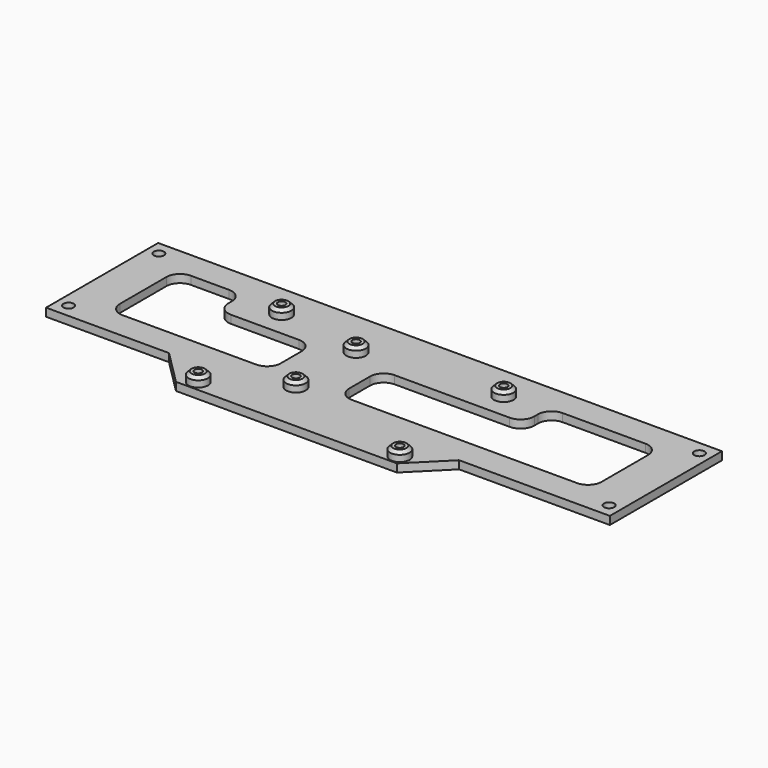
from build123d import *

# Parameters (mm, degrees)
F0_W      = 209.55
F0_H      = 52.07
F0_R      = 1.905
F1_DEPTH  = 2.999994
F3_DEPTH  = 2.999994
F4_R      = 1.397
F5_DEPTH  = 25.4
F6_R      = 3.6195
F6_R_2    = 1.397
F7_DEPTH  = 3.5052
F8_SIZE   = 1.143
F10_DEPTH = 25.4


with BuildPart() as f1:
    # F0 (on Top) → F1 (new body)
    with BuildSketch(Plane.XY):
        with Locations((-104.775, -26.035)):
            Rectangle(F0_W, F0_H)
        with Locations((-205.24089, -46.99)):
            Circle(F0_R, mode=Mode.SUBTRACT)
        with Locations((-4.30911, -46.99)):
            Circle(F0_R, mode=Mode.SUBTRACT)
        with Locations((-205.24089, -5.08)):
            Circle(F0_R, mode=Mode.SUBTRACT)
        with Locations((-4.30911, -5.08)):
            Circle(F0_R, mode=Mode.SUBTRACT)
    extrude(amount=F1_DEPTH)

    # F2 (on face) → F3 (join, through all)
    with BuildSketch(Plane.XY.offset(2.999994)):
        Polygon((-56.0324, -52.07), (-163.8554, -52.07), (-150.9903, -64.924351), (-68.8975, -64.924351), align=None)
    extrude(amount=-F3_DEPTH)

    # F4 (on face) → F5 (cut)
    with BuildSketch(Plane.XY.offset(2.999994)):
        with Locations((-70.993, -12.6238)):
            Circle(F4_R)
        with BuildLine():
            ThreePointArc((-71.980828, -59.921372), (-71.527609, -62.19986), (-69.596, -60.9092))
            ThreePointArc((-69.596, -60.9092), (-70.458391, -59.61854), (-71.980828, -59.921372))
        make_face()
        with BuildLine():
            ThreePointArc((-120.406289, -45.660725), (-120.512629, -45.126116), (-120.815461, -44.672897))
            ThreePointArc((-120.815461, -44.672897), (-123.093949, -46.195334), (-120.406289, -45.660725))
        make_face()
        with Locations((-153.543, -12.6238)):
            Circle(F4_R)
        with Locations((-145.923, -60.9092)):
            Circle(F4_R)
        with Locations((-121.803289, -17.720725)):
            Circle(F4_R)
    extrude(amount=-F5_DEPTH, mode=Mode.SUBTRACT)

    # F6 (on face) → F7 (join)
    with BuildSketch(Plane.XY.offset(2.999994)):
        with Locations((-153.543, -12.6238)):
            Circle(F6_R)
        with Locations((-153.543, -12.6238)):
            Circle(F6_R_2, mode=Mode.SUBTRACT)
        with Locations((-145.923, -60.9092)):
            Circle(F6_R)
        with Locations((-145.923, -60.9092)):
            Circle(F6_R_2, mode=Mode.SUBTRACT)
        with Locations((-121.803289, -45.660725)):
            Circle(F6_R)
        with Locations((-121.803289, -45.660725)):
            Circle(F6_R_2, mode=Mode.SUBTRACT)
        with Locations((-121.803289, -17.720725)):
            Circle(F6_R)
        with Locations((-121.803289, -17.720725)):
            Circle(F6_R_2, mode=Mode.SUBTRACT)
        with Locations((-70.993, -12.6238)):
            Circle(F6_R)
        with Locations((-70.993, -12.6238)):
            Circle(F6_R_2, mode=Mode.SUBTRACT)
        with Locations((-70.993, -60.9092)):
            Circle(F6_R)
        with Locations((-70.993, -60.9092)):
            Circle(F6_R_2, mode=Mode.SUBTRACT)
    extrude(amount=F7_DEPTH)

    # F8
    f8_edges = [f1.edges().sort_by_distance(p)[0] for p in [
        (-157.1625, -12.6238, 6.505194),
        (-125.422789, -17.720725, 6.505194),
        (-125.422789, -45.660725, 6.505194),
        (-149.5425, -60.9092, 6.505194),
        (-74.6125, -60.9092, 6.505194),
        (-74.6125, -12.6238, 6.505194),
    ]]
    chamfer(f8_edges, length=F8_SIZE)

    # F9 (on face) → F10 (cut)
    with BuildSketch(Plane.XY.offset(2.999994)):
        with BuildLine():
            ThreePointArc((-15.24, -15.24), (-16.727898, -11.647898), (-20.32, -10.16))
            Line((-20.32, -10.16), (-51.095472, -10.16))
            ThreePointArc((-51.095472, -10.16), (-54.687574, -11.647898), (-56.175472, -15.24))
            Line((-56.175472, -15.24), (-56.175472, -16.951881))
            ThreePointArc((-56.175472, -16.951881), (-57.663369, -20.543983), (-61.255472, -22.031881))
            Line((-61.255472, -22.031881), (-104.023289, -22.031881))
            ThreePointArc((-104.023289, -22.031881), (-107.615392, -23.519778), (-109.103289, -27.111881))
            Line((-109.103289, -27.111881), (-109.103289, -36.83))
            ThreePointArc((-109.103289, -36.83), (-107.615392, -40.422102), (-104.023289, -41.91))
            Line((-104.023289, -41.91), (-56.175472, -41.91))
            Line((-56.175472, -41.91), (-20.32, -41.91))
            ThreePointArc((-20.32, -41.91), (-16.727898, -40.422102), (-15.24, -36.83))
            Line((-15.24, -36.83), (-15.24, -15.24))
        make_face()
        with BuildLine():
            Line((-175.018272, -10.16), (-189.23, -10.16))
            ThreePointArc((-189.23, -10.16), (-192.822102, -11.647898), (-194.31, -15.24))
            Line((-194.31, -15.24), (-194.31, -36.83))
            ThreePointArc((-194.31, -36.83), (-192.822102, -40.422102), (-189.23, -41.91))
            Line((-189.23, -41.91), (-169.938272, -41.91))
            Line((-169.938272, -41.91), (-139.583289, -41.91))
            ThreePointArc((-139.583289, -41.91), (-135.991187, -40.422102), (-134.503289, -36.83))
            Line((-134.503289, -36.83), (-134.503289, -27.111881))
            ThreePointArc((-134.503289, -27.111881), (-135.991187, -23.519778), (-139.583289, -22.031881))
            Line((-139.583289, -22.031881), (-164.858272, -22.031881))
            ThreePointArc((-164.858272, -22.031881), (-168.450374, -20.543983), (-169.938272, -16.951881))
            Line((-169.938272, -16.951881), (-169.938272, -15.24))
            ThreePointArc((-169.938272, -15.24), (-171.426169, -11.647898), (-175.018272, -10.16))
        make_face()
    extrude(amount=-F10_DEPTH, mode=Mode.SUBTRACT)


solid = f1.part
